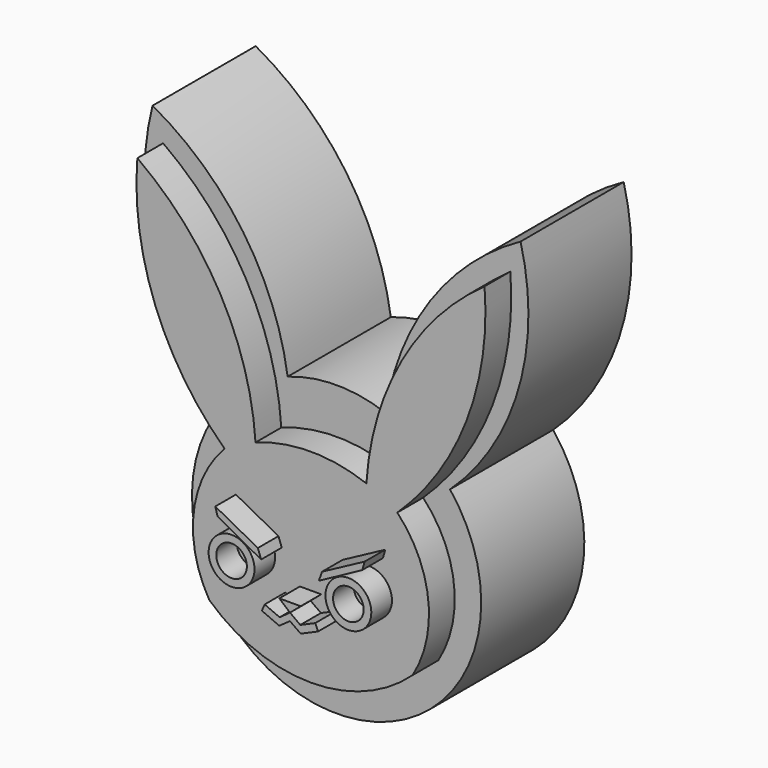
from build123d import *

# Parameters (mm, degrees)
F2_DEPTH = 10
F3_DEPTH = 12.5
F6_DEPTH = 2
F5_R     = 1.7792759986
F5_R_2   = 1.1876997662


with BuildPart() as f2:
    # F0 (on Front) → F2 (new body)
    with BuildSketch(Plane.XZ):
        with BuildLine():
            ThreePointArc((-14.2738064751, 19.869748503), (-14.1178299404, 9.763008645), (-8.8008762318, 1.1664673349))
            ThreePointArc((-8.8008762318, 1.1664673349), (0, -17.0102110316), (8.8008762318, 1.1664673349))
            ThreePointArc((8.8008762318, 1.1664673349), (14.1178299404, 9.763008645), (14.2738064751, 19.869748503))
            ThreePointArc((14.2738064751, 19.869748503), (7.2635841838, 13.5466622081), (3.7950583725, 4.7663452684))
            ThreePointArc((3.7950583725, 4.7663452684), (0, 5.4277201824), (-3.7950583725, 4.7663452684))
            ThreePointArc((-3.7950583725, 4.7663452684), (-7.2635841838, 13.5466622081), (-14.2738064751, 19.869748503))
        make_face()
    extrude(amount=F2_DEPTH)


with BuildPart() as f3:
    # F1 (on Front) → F3 (new body)
    with BuildSketch(Plane.XZ):
        with BuildLine():
            ThreePointArc((-13.4565437323, 17.5660512307), (-12.0721921692, 7.9762826093), (-6.6902991314, -0.0807217219))
            ThreePointArc((-6.6902991314, -0.0807217219), (-9.0916522326, -5.2424499921), (-7.8719464411, -10.8032281063))
            ThreePointArc((-7.8719464411, -10.8032281063), (0.0113956802, -13.8790606232), (7.8947378016, -10.8032281063))
            ThreePointArc((7.8947378016, -10.8032281063), (9.1144435931, -5.2424499921), (6.7130904919, -0.0807217219))
            ThreePointArc((6.7130904919, -0.0807217219), (12.0949835297, 7.9762826093), (13.4793350928, 17.5660512307))
            ThreePointArc((13.4793350928, 17.5660512307), (7.042062758, 10.3806469076), (4.3115849096, 1.1279175201))
            ThreePointArc((4.3115849096, 1.1279175201), (0.0113956802, 1.9034316753), (-4.2887935491, 1.1279175201))
            ThreePointArc((-4.2887935491, 1.1279175201), (-7.0192713975, 10.3806469076), (-13.4565437323, 17.5660512307))
        make_face()
    extrude(amount=F3_DEPTH)


with BuildPart() as f6:
    # F5 (on offset) → F6 (new body)
    with BuildSketch(Plane.XZ.offset(12.5)):
        Polygon((-2.5064561482, -4.6867094934), (-5.8078980505, -2.9225801118), (-5.6314850657, -3.5526263528), (-2.2544376983, -5.3923609667), align=None)
    extrude(amount=F6_DEPTH)


with BuildPart() as f6b:
    # F5 (on offset) → F6, piece 2 (new body)
    with BuildSketch(Plane.XZ.offset(12.5)):
        with Locations((-4.5478060342, -6.2240222469)):
            Circle(F5_R)
        with Locations((-4.5478060342, -6.2240222469)):
            Circle(F5_R_2, mode=Mode.SUBTRACT)
    extrude(amount=F6_DEPTH)


with BuildPart() as f6c:
    # F5 (on offset) → F6, piece 3 (new body)
    with BuildSketch(Plane.XZ.offset(12.5)):
        Polygon((0.8108705084, -7.5849220157), (-0.0161319471, -7.5849220157), (-0.8431344026, -7.5849220157), (-0.0161319471, -8.2905739546), align=None)
    extrude(amount=F6_DEPTH)


with BuildPart() as f6d:
    # F5 (on offset) → F6, piece 4 (new body)
    with BuildSketch(Plane.XZ.offset(12.5)):
        Polygon((0.7856685703, -8.8702160865), (-0.0161319471, -8.2905739546), (-0.8179324645, -8.8702160865), (-1.9772174268, -8.3661796525), (-2.1963634824, -8.8702160865), (-0.8490863708, -9.4559881555), (-0.0161319471, -8.8702160865), (0.8168224766, -9.4559881555), (2.1640995882, -8.8702160865), (1.9449535326, -8.3661796525), align=None)
    extrude(amount=F6_DEPTH)


with BuildPart() as f6e:
    # F5 (on offset) → F6, piece 5 (new body)
    with BuildSketch(Plane.XZ.offset(12.5)):
        with Locations((4.5155421399, -6.2240222469)):
            Circle(F5_R)
        with Locations((4.5155421399, -6.2240222469)):
            Circle(F5_R_2, mode=Mode.SUBTRACT)
    extrude(amount=F6_DEPTH)


with BuildPart() as f6f:
    # F5 (on offset) → F6, piece 6 (new body)
    with BuildSketch(Plane.XZ.offset(12.5)):
        Polygon((2.474192254, -4.6867094934), (2.2221738041, -5.3923609667), (5.5992211715, -3.5526263528), (5.7756341562, -2.9225801118), align=None)
    extrude(amount=F6_DEPTH)


solid = Compound([f2.part, f3.part, f6.part, f6b.part, f6c.part, f6d.part, f6e.part, f6f.part])
